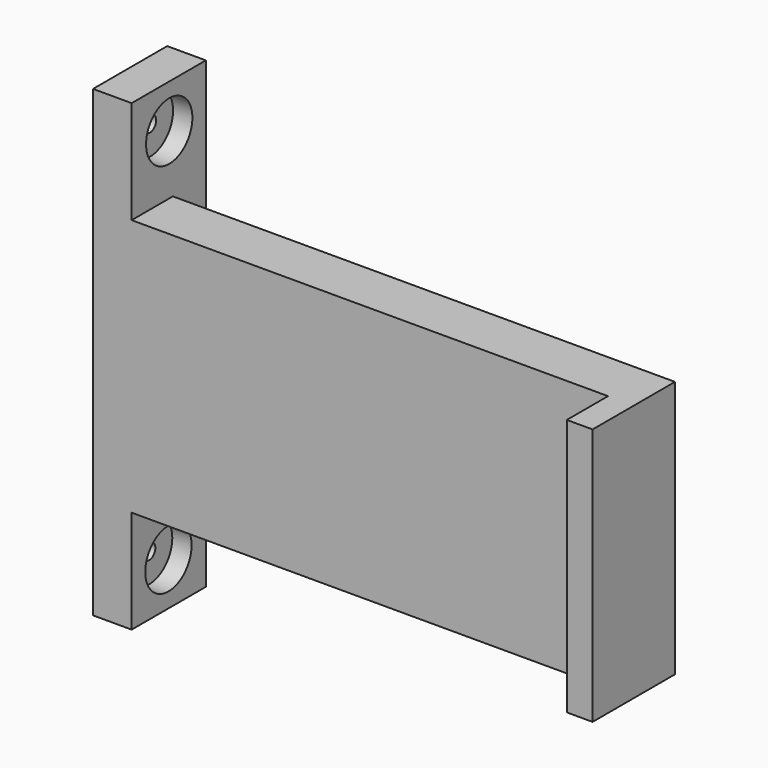
from build123d import *

# Parameters (mm, degrees)
F0_W      = 63.5
F0_H      = 31.75
F1_DEPTH  = 6.35
F2_W      = 4.7625
F2_H      = 6.35
F3_DEPTH  = 12.7
F4_W      = 4.7625
F4_H      = 6.35
F5_DEPTH  = 12.7
F6_W      = 4.7625
F6_H      = 12.7
F7_DEPTH  = 5.08
F8_R      = 3.571875
F8_R_2    = 0.9615286486
F9_DEPTH  = 2.38125
F10_DEPTH = 6.35
F11_W     = 4.7625
F11_H     = 12.7
F12_DEPTH = 5.08
F13_R     = 0.9615297
F14_DEPTH = 6.35
F13_R_2   = 3.571875
F15_DEPTH = 2.38125
F16_DEPTH = 31.75
F17_DEPTH = 3.175
F18_W     = 3.175
F18_H     = 31.75
F19_DEPTH = 6.35


with BuildPart() as f1:
    # F0 (on Front) → F1 (new body)
    with BuildSketch(Plane.XZ):
        with Locations((-31.75, 54.4051597416)):
            Rectangle(F0_W, F0_H)
    extrude(amount=F1_DEPTH)

    # F2 (on face) → F3 (join)
    with BuildSketch(Plane.XY.offset(70.2801597416)):
        with Locations((-61.11875, -3.175)):
            Rectangle(F2_W, F2_H)
    extrude(amount=F3_DEPTH)

    # F4 (on face) → F5 (join)
    with BuildSketch(Plane(origin=(0, 0, 38.5301597416), x_dir=(1, 0, 0), z_dir=(0, 0, -1))):
        with Locations((-61.11875, 3.175)):
            Rectangle(F4_W, F4_H)
    extrude(amount=F5_DEPTH)

    # F6 (on face) → F7 (join)
    with BuildSketch(Plane(origin=(0, 0, 0), x_dir=(-1, 0, 0), z_dir=(0, 1, 0))):
        with Locations((61.11875, 76.6301597416)):
            Rectangle(F6_W, F6_H)
    extrude(amount=F7_DEPTH)

    # F8 (on face) → F9 (cut)
    with BuildSketch(Plane.YZ.offset(-58.7375)):
        with Locations((-0.5586565495, 77.6017636912)):
            Circle(F8_R)
        with Locations((-0.5586565495, 77.6017636912)):
            Circle(F8_R_2, mode=Mode.SUBTRACT)
    extrude(amount=-F9_DEPTH, mode=Mode.SUBTRACT)

    # F8 (on face) → F10 (cut)
    with BuildSketch(Plane.YZ.offset(-58.7375)):
        with Locations((-0.5586565495, 77.6017636912)):
            Circle(F8_R_2)
    extrude(amount=-F10_DEPTH, mode=Mode.SUBTRACT)

    # F11 (on face) → F12 (join)
    with BuildSketch(Plane(origin=(0, 0, 0), x_dir=(-1, 0, 0), z_dir=(0, 1, 0))):
        with Locations((61.11875, 32.1801597416)):
            Rectangle(F11_W, F11_H)
    extrude(amount=F12_DEPTH)

    # F13 (on face) → F14 (cut)
    with BuildSketch(Plane.YZ.offset(-58.7375)):
        with Locations((-0.6811455784, 31.2418671489)):
            Circle(F13_R)
    extrude(amount=-F14_DEPTH, mode=Mode.SUBTRACT)

    # F13 (on face) → F15 (cut)
    with BuildSketch(Plane.YZ.offset(-58.7375)):
        with Locations((-0.6811455784, 31.2418671489)):
            Circle(F13_R_2)
        with Locations((-0.6811455784, 31.2418671489)):
            Circle(F13_R, mode=Mode.SUBTRACT)
    extrude(amount=-F15_DEPTH, mode=Mode.SUBTRACT)

    # F16 (add): a face of the model
    f16_faces = [f1.faces().sort_by_distance(p)[0] for p in [
        (-61.11875, 2.54, 70.2801597416),
    ]]
    extrude(f16_faces, amount=F16_DEPTH)

    # F17 (add): a face of the model
    f17_faces = [f1.faces().sort_by_distance(p)[0] for p in [
        (0, -3.175, 54.4051597416),
    ]]
    extrude(f17_faces, amount=F17_DEPTH)

    # F18 (on face) → F19 (join)
    with BuildSketch(Plane.XZ.offset(6.35)):
        with Locations((1.5875, 54.4051597416)):
            Rectangle(F18_W, F18_H)
    extrude(amount=F19_DEPTH)


solid = f1.part
